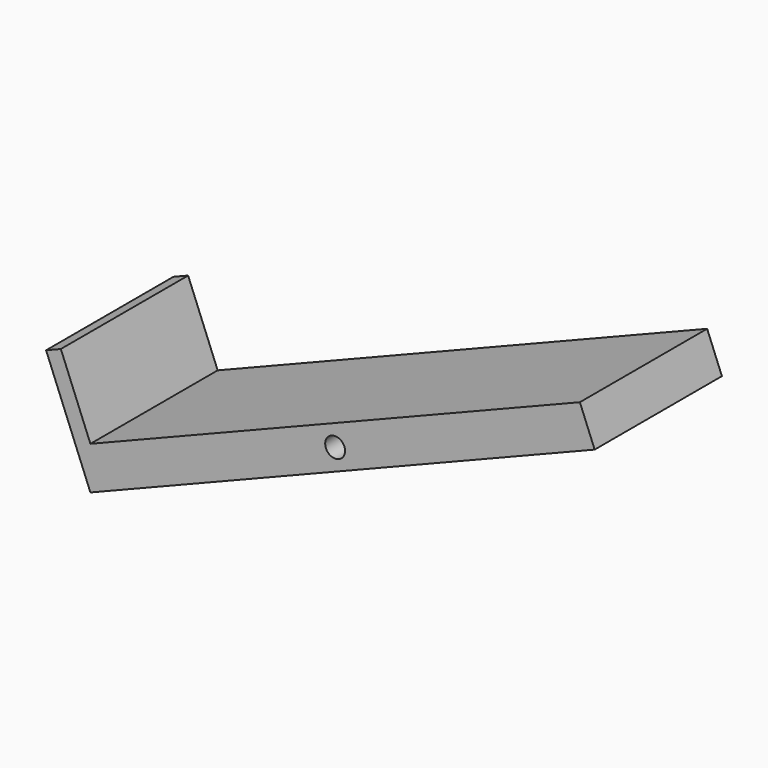
from build123d import *

# Parameters (mm, degrees)
F1_DEPTH = 50.8
F3_DEPTH = 50.8
F4_R     = 3.175
F5_DEPTH = 50.8


with BuildPart() as f1:
    # F0 (on Front) → F1 (new body)
    with BuildSketch(Plane.XZ):
        Polygon((104.640433, 0), (80.510433, 32.204173), (56.380433, 0), (61.460433, 0), (80.510433, 25.424347), (99.560433, 0), align=None)
        Polygon((-14.149985, 35.374962), (0, 0), (80.510433, 32.204173), (161.020865, 64.408346), (156.304203, 76.2), (0, 13.678319), (-9.433323, 37.261627), align=None)
    extrude(amount=F1_DEPTH)

    # F2 (on face) → F3 (cut)
    with BuildSketch(Plane.XZ.offset(50.8)):
        Polygon((117.38383, 0), (80.510433, 32.204173), (41.978721, -5.036601), align=None)
    extrude(amount=-F3_DEPTH, mode=Mode.SUBTRACT)

    # F4 (on face) → F5 (cut)
    with BuildSketch(Plane.XZ.offset(50.8)):
        with Locations((78.152102, 38.1)):
            Circle(F4_R)
    extrude(amount=-F5_DEPTH, mode=Mode.SUBTRACT)


solid = f1.part
